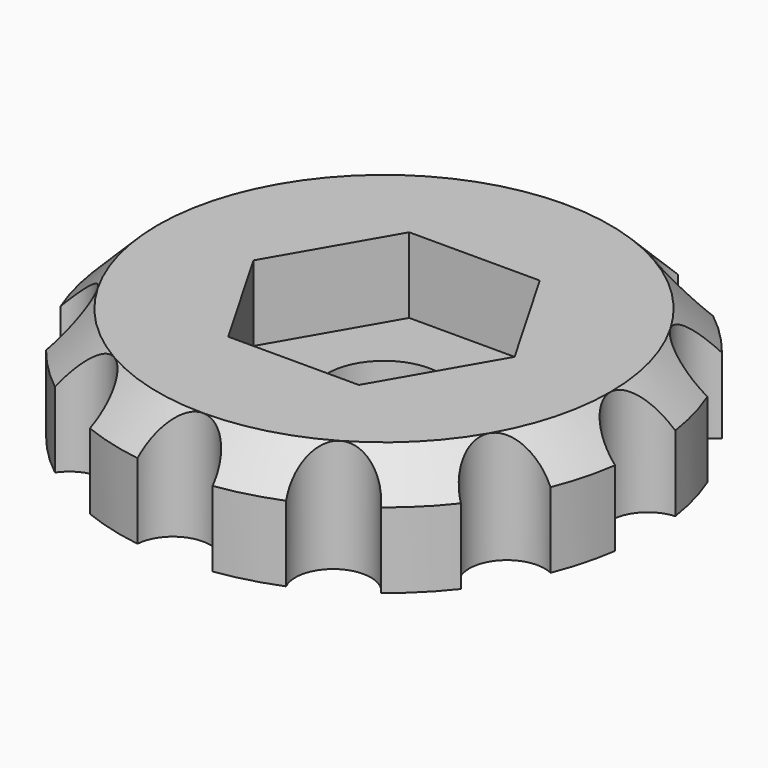
from build123d import *

# Parameters (mm, degrees)
CYLINDER028_R     = 1
CYLINDER028_DEPTH = 10
ARRAY002_COUNT    = 12
CYLINDER027_R     = 1.5
CYLINDER027_DEPTH = 10
CYLINDER026_R     = 7
CYLINDER026_DEPTH = 3
POCKET009_DEPTH   = 2
CHAMFER010_SIZE   = 1


with BuildPart() as array002:
    # Cylinder028 → Cylinder028 (new body)
    with BuildSketch(Plane(origin=(7, 0, -2), x_dir=(1, 0, 0), z_dir=(0, 0, 1))):
        Circle(CYLINDER028_R)
    extrude(amount=CYLINDER028_DEPTH)

    # Array002: Array002 ×12 about axis
    array002_axis = Axis((0, 0, 0), (0, 0, 1))


with BuildPart() as array002_1:
    add(array002.part)
    for i in range(1, ARRAY002_COUNT):
        add(array002.part.rotate(array002_axis, i * 360 / ARRAY002_COUNT))


with BuildPart() as cilindro019:
    # Cylinder027 → Cylinder027 (new body)
    with BuildSketch(Plane.XY.offset(-2)):
        Circle(CYLINDER027_R)
    extrude(amount=CYLINDER027_DEPTH)


with BuildPart() as cut017:
    # Cylinder026 → Cylinder026 (new body)
    with BuildSketch(Plane.XY):
        Circle(CYLINDER026_R)
    extrude(amount=CYLINDER026_DEPTH)

    # Sketch004 → Pocket009 (cut)
    with BuildSketch(Plane.XY.offset(3)):
        Polygon((-3.464093, 0), (-1.732049, 3), (1.732049, 3), (3.464093, 0), (1.732049, -3), (-1.732049, -3), align=None)
    extrude(amount=-POCKET009_DEPTH, mode=Mode.SUBTRACT)

    # Chamfer010
    chamfer010_edges = [cut017.edges().sort_by_distance(p)[0] for p in [
        (-7, 0, 3),
    ]]
    chamfer(chamfer010_edges, length=CHAMFER010_SIZE)

    # Cut016: cut Cilindro019
    add(cilindro019.part, mode=Mode.SUBTRACT)

    # Cut017: cut Array002
    add(array002_1.part, mode=Mode.SUBTRACT)


with BuildPart() as cut017_1:
    # Cut017 placement: moved
    add(cut017.part.moved(Location((3, 41, -10.3))))


solid = cut017_1.part
